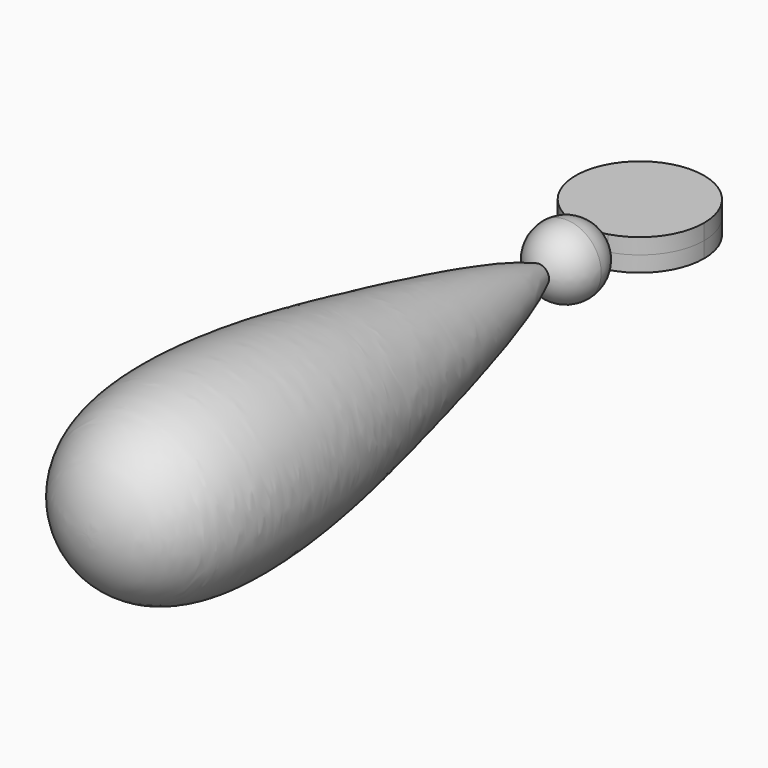
from build123d import *

# Parameters (mm, degrees)
F4_DEPTH      = 1
F4_DEPTH_BACK = 1


with BuildPart() as f1:
    # F0 (on Top) → F1 (revolve)
    with BuildSketch(Plane.XY):
        with BuildLine():
            Line((0, -12.473312679), (0, 24.526687321))
            add(Edge.make_bspline(
                [(0, 24.526687321), (-1.3627446024, 23.1731329113), (-4.4742820982, 9.6920630976), (-6.3055321793, -0.6568871217), (-5.9037112934, -9.9709171664), (-2.2410321159, -12.4645982367), (0, -12.473312679)],
                knots=[0, 0, 0, 0, 0.3013061916, 0.5816044542, 0.8104723691, 1, 1, 1, 1], degree=3))
        make_face()
    revolve(axis=Axis((0, 6.026687321, 0), (0, -1, 0)))

    # F2 (on Top) → F3 (revolve)
    with BuildSketch(Plane.XY):
        with BuildLine():
            Line((0, 27.9292177189), (0, 27.4795040748))
            ThreePointArc((0, 27.4795040748), (0.5625669558, 27.5183137348), (1.1144752305, 27.6340074069))
            ThreePointArc((1.1144752305, 27.6340074069), (0.5764555854, 27.8541640655), (0, 27.9292177189))
        make_face()
        with BuildLine():
            Line((0, 27.4795040748), (0, 23.426650859))
            ThreePointArc((0, 23.426650859), (1.5918977797, 24.0860365093), (2.2512834299, 25.677934289))
            ThreePointArc((2.2512834299, 25.677934289), (1.9464424858, 26.8091454679), (1.1144752305, 27.6340074069))
            ThreePointArc((1.1144752305, 27.6340074069), (0.5625669558, 27.5183137348), (0, 27.4795040748))
        make_face()
    revolve(axis=Axis((0, 25.677934289, 0), (0, 1, 0)))

    # F2 (on Top) → F4 (join, two sides)
    with BuildSketch(Plane.XY) as f4_sk:
        with BuildLine():
            ThreePointArc((4.0967605748, 31.5762646496), (-2.4716097003, 34.8434641686), (-1.1144752305, 27.6340074069))
            ThreePointArc((-1.1144752305, 27.6340074069), (-0.5764555854, 27.8541640655), (0, 27.9292177189))
            ThreePointArc((0, 27.9292177189), (0.5764555854, 27.8541640655), (1.1144752305, 27.6340074069))
            ThreePointArc((1.1144752305, 27.6340074069), (3.2671995189, 29.1046549493), (4.0967605748, 31.5762646496))
        make_face()
        with BuildLine():
            Line((0, 27.9292177189), (0, 27.4795040748))
            ThreePointArc((0, 27.4795040748), (0.5625669558, 27.5183137348), (1.1144752305, 27.6340074069))
            ThreePointArc((1.1144752305, 27.6340074069), (0.5764555854, 27.8541640655), (0, 27.9292177189))
        make_face()
        with BuildLine():
            ThreePointArc((0, 27.9292177189), (-0.5764555854, 27.8541640655), (-1.1144752305, 27.6340074069))
            ThreePointArc((-1.1144752305, 27.6340074069), (-0.5625669558, 27.5183137348), (0, 27.4795040748))
            Line((0, 27.4795040748), (0, 27.9292177189))
        make_face()
    extrude(amount=F4_DEPTH)
    extrude(f4_sk.sketch, amount=-F4_DEPTH_BACK)


solid = f1.part
